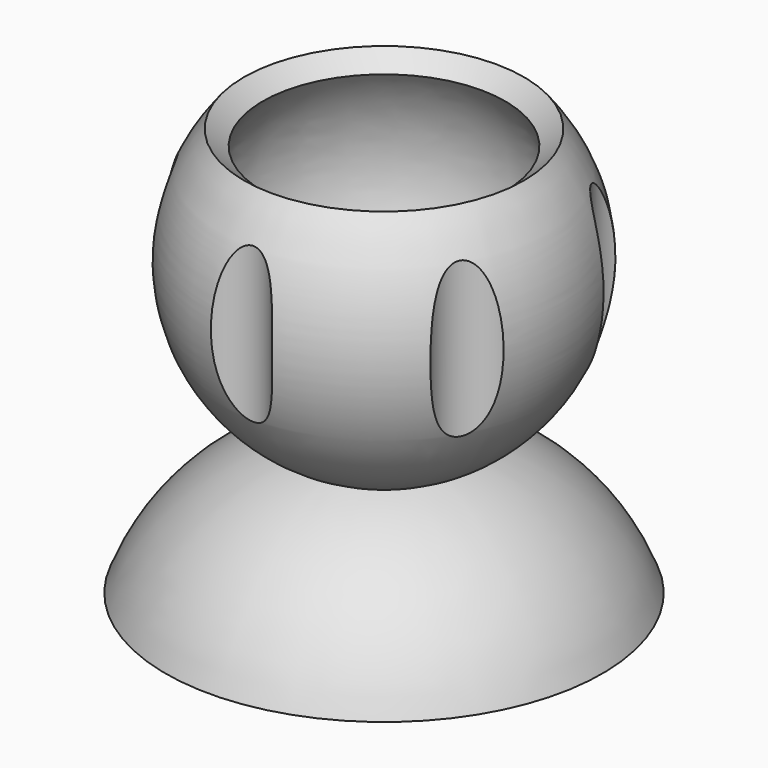
from build123d import *

# Parameters (mm, degrees)
F3_R     = 5.158822
F4_DEPTH = 63.5


with BuildPart() as f1:
    # F0 (on Right) → F1 (revolve)
    with BuildSketch(Plane.YZ):
        with BuildLine():
            Line((0, -20.634915), (0, -23.809915))
            ThreePointArc((0, -23.809915), (5.430073, -23.182458), (10.57395, -21.333158))
            ThreePointArc((10.57395, -21.333158), (23.270803, -5.038036), (18.45064, 15.04945))
            Line((18.45064, 15.04945), (15.990288, 13.042639))
            ThreePointArc((15.990288, 13.042639), (18.64046, -8.850593), (0, -20.634915))
        make_face()
        with BuildLine():
            ThreePointArc((10.57395, -21.333158), (5.430073, -23.182458), (0, -23.809915))
            Line((0, -23.809915), (0, -33.211622))
            ThreePointArc((0, -33.211622), (11.486393, -31.332188), (20.433851, -38.776144))
            Line((20.433851, -38.776144), (28.78063, -38.776144))
            ThreePointArc((28.78063, -38.776144), (21.672509, -27.972077), (10.57395, -21.333158))
        make_face()
    revolve(axis=Axis((0, 0, 4.475364), (0, 0, 1)))

    # F3 (on offset) → F4 (cut)
    with BuildSketch(Plane.XY.offset(50.8)):
        with Locations((0, 26.67)):
            Circle(F3_R)
        with Locations((-23.096898, 13.335)):
            Circle(F3_R)
        with Locations((-23.096898, -13.335)):
            Circle(F3_R)
        with Locations((23.096898, -13.335)):
            Circle(F3_R)
        with Locations((23.096898, 13.335)):
            Circle(F3_R)
        with Locations((0, -26.67)):
            Circle(F3_R)
    extrude(amount=-F4_DEPTH, mode=Mode.SUBTRACT)


solid = f1.part
